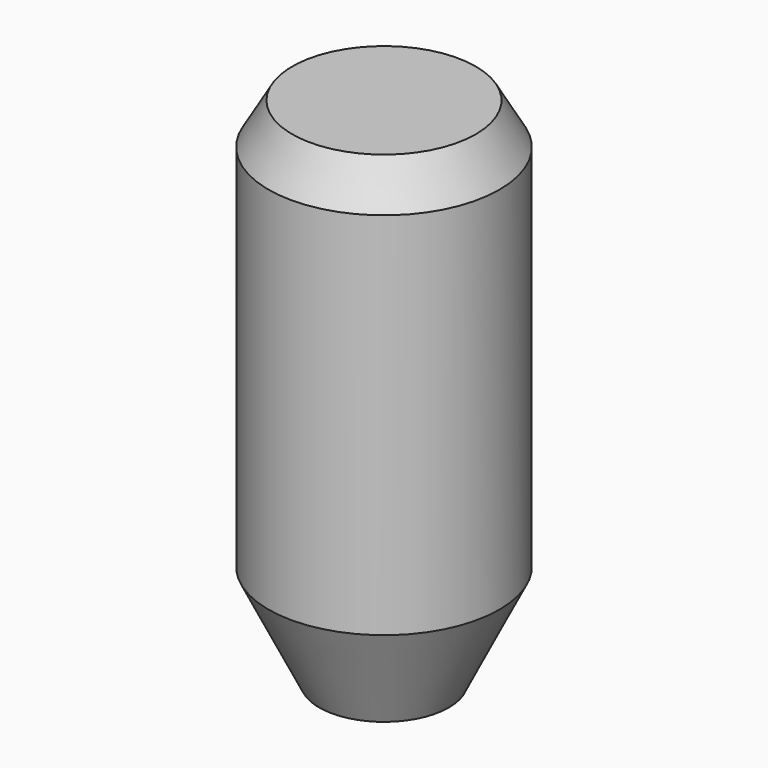
from build123d import *

# Parameters (mm, degrees)
F0_R     = 8.0316205534
F2_R     = 14.2875
F4_R     = 14.2875
F8_D     = 12.04743083
F8_DEPTH = 38.1
F8_TIP   = 3.6194133731
F9_SIZE2 = 2.9329393675
F9_SIZE  = 5.08


with BuildPart() as f5:
    # F0 (on Top) → F5 section 0
    with BuildSketch(Plane.XY):
        Circle(F0_R)
    # F2 (on offset) → F5 section 1
    with BuildSketch(Plane.XY.offset(12.7)):
        Circle(F2_R)
    loft()

    # F4 (on offset) → F6 section 0
    with BuildSketch(Plane.XY.offset(63.5)):
        Circle(F4_R)
    # F2 (on offset) → F6 section 1
    with BuildSketch(Plane.XY.offset(12.7)):
        Circle(F2_R)
    loft()

    # F8
    with Locations(Plane(origin=(0, 0, 0), x_dir=(1, 0, 0), z_dir=(0, 0, -1))):
        with Locations((0, 0)):
            Hole(F8_D / 2, depth=F8_DEPTH)
            with Locations((0, 0, -(F8_DEPTH + F8_TIP / 2))):  # 118° drill point
                Cone(0, F8_D / 2, F8_TIP, mode=Mode.SUBTRACT)

    # F9
    f9_edges = [f5.edges().sort_by_distance(p)[0] for p in [
        (-14.2875, 0, 63.5),
    ]]
    chamfer(f9_edges, length=F9_SIZE, length2=F9_SIZE2)


solid = f5.part
